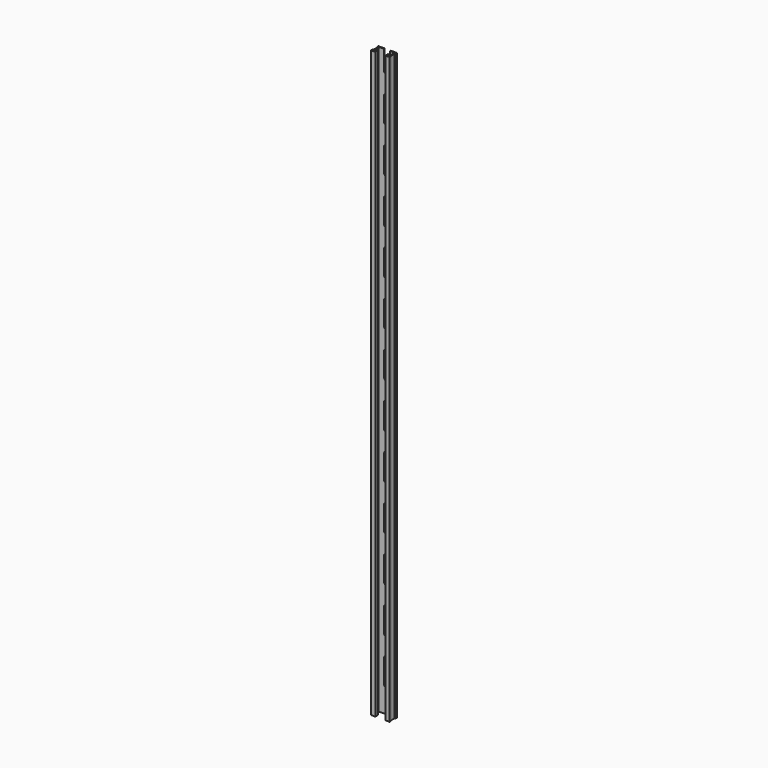
from build123d import *

# Parameters (mm, degrees)
F1_DEPTH = 1300
F3_DEPTH = 25


with BuildPart() as f1:
    # F0 (on Top) → F1 (new body)
    with BuildSketch(Plane.XY):
        Polygon((20.65, 10.3), (0, 10.3), (-20.65, 10.3), (-20.65, 6.3), (-19.15, 4.8), (-19.15, -4.8), (-20.65, -6.3), (-20.65, -10.3), (-11.15, -10.3), (-11.15, -2.8), (-13.15, -2.8), (-13.15, -8.3), (-18.65, -8.3), (-18.65, -6.8), (-17.15, -5.3), (-17.15, 5.3), (-18.65, 6.8), (-18.65, 8.3), (0, 8.3), (18.65, 8.3), (18.65, 6.8), (17.15, 5.3), (17.15, -5.3), (18.65, -6.8), (18.65, -8.3), (13.15, -8.3), (13.15, -2.8), (11.15, -2.8), (11.15, -10.3), (20.65, -10.3), (20.65, -6.3), (19.15, -4.8), (19.15, 4.8), (20.65, 6.3), align=None)
    extrude(amount=F1_DEPTH)

    # F2 (on face) → F3 (cut)
    with BuildSketch(Plane(origin=(0, 10.3, 0), x_dir=(-1, 0, 0), z_dir=(0, 1, 0))):
        with BuildLine():
            Line((-0.5, 51.5), (0.5, 51.5))
            ThreePointArc((0.5, 51.5), (4.919417, 53.330583), (6.75, 57.75))
            Line((6.75, 57.75), (6.75, 108.25))
            ThreePointArc((6.75, 108.25), (4.919417, 112.669417), (0.5, 114.5))
            Line((0.5, 114.5), (-0.5, 114.5))
            ThreePointArc((-0.5, 114.5), (-4.919417, 112.669417), (-6.75, 108.25))
            Line((-6.75, 108.25), (-6.75, 57.75))
            ThreePointArc((-6.75, 57.75), (-4.919417, 53.330583), (-0.5, 51.5))
        make_face()
        with BuildLine():
            Line((-6.75, 208.25), (-6.75, 157.75))
            ThreePointArc((-6.75, 157.75), (-4.919417, 153.330583), (-0.5, 151.5))
            Line((-0.5, 151.5), (0.5, 151.5))
            ThreePointArc((0.5, 151.5), (4.919417, 153.330583), (6.75, 157.75))
            Line((6.75, 157.75), (6.75, 208.25))
            ThreePointArc((6.75, 208.25), (4.919417, 212.669417), (0.5, 214.5))
            Line((0.5, 214.5), (-0.5, 214.5))
            ThreePointArc((-0.5, 214.5), (-4.919417, 212.669417), (-6.75, 208.25))
        make_face()
        with BuildLine():
            Line((-6.75, 308.25), (-6.75, 257.75))
            ThreePointArc((-6.75, 257.75), (-4.919417, 253.330583), (-0.5, 251.5))
            Line((-0.5, 251.5), (0.5, 251.5))
            ThreePointArc((0.5, 251.5), (4.919417, 253.330583), (6.75, 257.75))
            Line((6.75, 257.75), (6.75, 308.25))
            ThreePointArc((6.75, 308.25), (4.919417, 312.669417), (0.5, 314.5))
            Line((0.5, 314.5), (-0.5, 314.5))
            ThreePointArc((-0.5, 314.5), (-4.919417, 312.669417), (-6.75, 308.25))
        make_face()
        with BuildLine():
            Line((-6.75, 408.25), (-6.75, 357.75))
            ThreePointArc((-6.75, 357.75), (-4.919417, 353.330583), (-0.5, 351.5))
            Line((-0.5, 351.5), (0.5, 351.5))
            ThreePointArc((0.5, 351.5), (4.919417, 353.330583), (6.75, 357.75))
            Line((6.75, 357.75), (6.75, 408.25))
            ThreePointArc((6.75, 408.25), (4.919417, 412.669417), (0.5, 414.5))
            Line((0.5, 414.5), (-0.5, 414.5))
            ThreePointArc((-0.5, 414.5), (-4.919417, 412.669417), (-6.75, 408.25))
        make_face()
        with BuildLine():
            Line((-6.75, 508.25), (-6.75, 457.75))
            ThreePointArc((-6.75, 457.75), (-4.919417, 453.330583), (-0.5, 451.5))
            Line((-0.5, 451.5), (0.5, 451.5))
            ThreePointArc((0.5, 451.5), (4.919417, 453.330583), (6.75, 457.75))
            Line((6.75, 457.75), (6.75, 508.25))
            ThreePointArc((6.75, 508.25), (4.919417, 512.669417), (0.5, 514.5))
            Line((0.5, 514.5), (-0.5, 514.5))
            ThreePointArc((-0.5, 514.5), (-4.919417, 512.669417), (-6.75, 508.25))
        make_face()
        with BuildLine():
            Line((-6.75, 608.25), (-6.75, 557.75))
            ThreePointArc((-6.75, 557.75), (-4.919417, 553.330583), (-0.5, 551.5))
            Line((-0.5, 551.5), (0.5, 551.5))
            ThreePointArc((0.5, 551.5), (4.919417, 553.330583), (6.75, 557.75))
            Line((6.75, 557.75), (6.75, 608.25))
            ThreePointArc((6.75, 608.25), (4.919417, 612.669417), (0.5, 614.5))
            Line((0.5, 614.5), (-0.5, 614.5))
            ThreePointArc((-0.5, 614.5), (-4.919417, 612.669417), (-6.75, 608.25))
        make_face()
        with BuildLine():
            Line((-6.75, 708.25), (-6.75, 657.75))
            ThreePointArc((-6.75, 657.75), (-4.919417, 653.330583), (-0.5, 651.5))
            Line((-0.5, 651.5), (0.5, 651.5))
            ThreePointArc((0.5, 651.5), (4.919417, 653.330583), (6.75, 657.75))
            Line((6.75, 657.75), (6.75, 708.25))
            ThreePointArc((6.75, 708.25), (4.919417, 712.669417), (0.5, 714.5))
            Line((0.5, 714.5), (-0.5, 714.5))
            ThreePointArc((-0.5, 714.5), (-4.919417, 712.669417), (-6.75, 708.25))
        make_face()
        with BuildLine():
            Line((-6.75, 808.25), (-6.75, 757.75))
            ThreePointArc((-6.75, 757.75), (-4.919417, 753.330583), (-0.5, 751.5))
            Line((-0.5, 751.5), (0.5, 751.5))
            ThreePointArc((0.5, 751.5), (4.919417, 753.330583), (6.75, 757.75))
            Line((6.75, 757.75), (6.75, 808.25))
            ThreePointArc((6.75, 808.25), (4.919417, 812.669417), (0.5, 814.5))
            Line((0.5, 814.5), (-0.5, 814.5))
            ThreePointArc((-0.5, 814.5), (-4.919417, 812.669417), (-6.75, 808.25))
        make_face()
        with BuildLine():
            Line((-6.75, 908.25), (-6.75, 857.75))
            ThreePointArc((-6.75, 857.75), (-4.919417, 853.330583), (-0.5, 851.5))
            Line((-0.5, 851.5), (0.5, 851.5))
            ThreePointArc((0.5, 851.5), (4.919417, 853.330583), (6.75, 857.75))
            Line((6.75, 857.75), (6.75, 908.25))
            ThreePointArc((6.75, 908.25), (4.919417, 912.669417), (0.5, 914.5))
            Line((0.5, 914.5), (-0.5, 914.5))
            ThreePointArc((-0.5, 914.5), (-4.919417, 912.669417), (-6.75, 908.25))
        make_face()
        with BuildLine():
            Line((-6.75, 1008.25), (-6.75, 957.75))
            ThreePointArc((-6.75, 957.75), (-4.919417, 953.330583), (-0.5, 951.5))
            Line((-0.5, 951.5), (0.5, 951.5))
            ThreePointArc((0.5, 951.5), (4.919417, 953.330583), (6.75, 957.75))
            Line((6.75, 957.75), (6.75, 1008.25))
            ThreePointArc((6.75, 1008.25), (4.919417, 1012.669417), (0.5, 1014.5))
            Line((0.5, 1014.5), (-0.5, 1014.5))
            ThreePointArc((-0.5, 1014.5), (-4.919417, 1012.669417), (-6.75, 1008.25))
        make_face()
        with BuildLine():
            Line((-6.75, 1108.25), (-6.75, 1057.75))
            ThreePointArc((-6.75, 1057.75), (-4.919417, 1053.330583), (-0.5, 1051.5))
            Line((-0.5, 1051.5), (0.5, 1051.5))
            ThreePointArc((0.5, 1051.5), (4.919417, 1053.330583), (6.75, 1057.75))
            Line((6.75, 1057.75), (6.75, 1108.25))
            ThreePointArc((6.75, 1108.25), (4.919417, 1112.669417), (0.5, 1114.5))
            Line((0.5, 1114.5), (-0.5, 1114.5))
            ThreePointArc((-0.5, 1114.5), (-4.919417, 1112.669417), (-6.75, 1108.25))
        make_face()
        with BuildLine():
            Line((-6.75, 1208.25), (-6.75, 1157.75))
            ThreePointArc((-6.75, 1157.75), (-4.919417, 1153.330583), (-0.5, 1151.5))
            Line((-0.5, 1151.5), (0.5, 1151.5))
            ThreePointArc((0.5, 1151.5), (4.919417, 1153.330583), (6.75, 1157.75))
            Line((6.75, 1157.75), (6.75, 1208.25))
            ThreePointArc((6.75, 1208.25), (4.919417, 1212.669417), (0.5, 1214.5))
            Line((0.5, 1214.5), (-0.5, 1214.5))
            ThreePointArc((-0.5, 1214.5), (-4.919417, 1212.669417), (-6.75, 1208.25))
        make_face()
        with BuildLine():
            Line((-6.75, 1300), (-6.75, 1257.75))
            ThreePointArc((-6.75, 1257.75), (-4.919417, 1253.330583), (-0.5, 1251.5))
            Line((-0.5, 1251.5), (0.5, 1251.5))
            ThreePointArc((0.5, 1251.5), (4.919417, 1253.330583), (6.75, 1257.75))
            Line((6.75, 1257.75), (6.75, 1300))
            Line((6.75, 1300), (-6.75, 1300))
        make_face()
    extrude(amount=-F3_DEPTH, mode=Mode.SUBTRACT)


solid = f1.part
